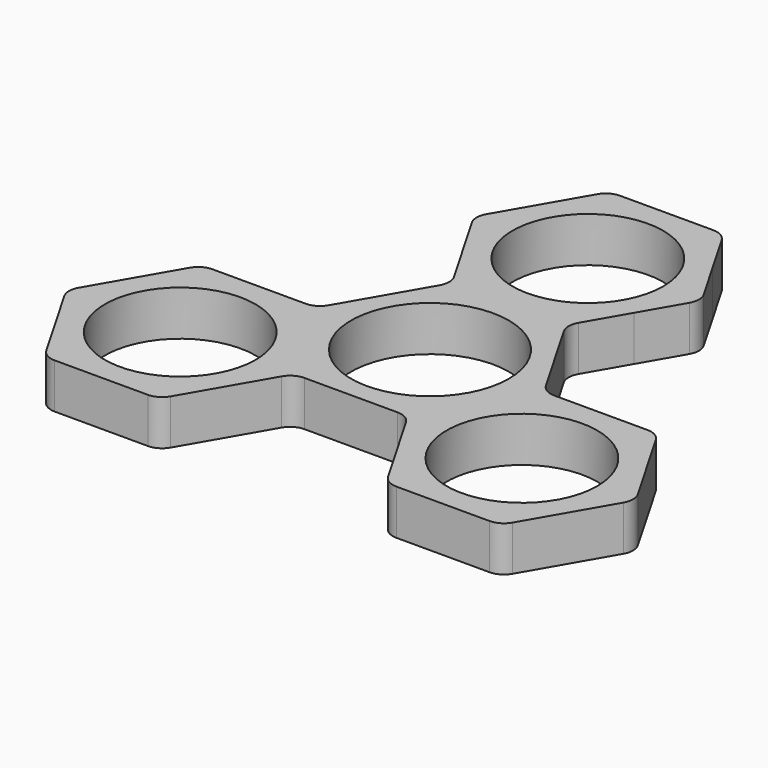
from build123d import *

# Parameters (mm, degrees)
F0_R     = 11.1125
F0_R_2   = 10.61
F1_DEPTH = 6.35
F2_R     = 2.54


with BuildPart() as f1:
    # F0 (on Top) → F1 (new body)
    with BuildSketch(Plane.XY):
        with BuildLine():
            ThreePointArc((12.029634049, -6.9453126307), (13.4173134113, -3.5951583713), (13.890625, 0))
            ThreePointArc((13.890625, 0), (13.4173134613, 3.5951581844), (12.0296342424, 6.9453122957))
            ThreePointArc((12.0296342424, 6.9453122957), (6.9453126033, 12.0296340648), (2.8e-09, 13.890625))
            ThreePointArc((2.8e-09, 13.890625), (-6.9453125381, 12.0296341025), (-12.0296341698, 6.9453124214))
            ThreePointArc((-12.0296341698, 6.9453124214), (-13.890625, 1.22e-08), (-12.029634182, -6.9453124002))
            ThreePointArc((-12.029634182, -6.9453124002), (-6.9453125499, -12.0296340956), (0, -13.890625))
            ThreePointArc((0, -13.890625), (6.9453124346, -12.0296341622), (12.029634049, -6.9453126307))
        make_face()
        Circle(F0_R, mode=Mode.SUBTRACT)
        with BuildLine():
            ThreePointArc((12.0296342424, 6.9453122957), (13.4173134613, 3.5951581844), (13.890625, 0))
            ThreePointArc((13.890625, 0), (13.4173134113, -3.5951583713), (12.029634049, -6.9453126307))
            Line((12.029634049, -6.9453126307), (16.0395121659, 0))
            Line((16.0395121659, 0), (12.0296342424, 6.9453122957))
        make_face()
        with BuildLine():
            ThreePointArc((2.8e-09, 13.890625), (6.9453126033, 12.0296340648), (12.0296342424, 6.9453122957))
            Line((12.0296342424, 6.9453122957), (8.019756083, 13.890625))
            Line((8.019756083, 13.890625), (2.8e-09, 13.890625))
        make_face()
        with BuildLine():
            Line((8.019756083, -13.890625), (12.029634049, -6.9453126307))
            ThreePointArc((12.029634049, -6.9453126307), (6.9453124346, -12.0296341622), (0, -13.890625))
            Line((0, -13.890625), (8.019756083, -13.890625))
        make_face()
        Polygon((16.0395121659, 0), (12.029634049, -6.9453126307), (8.019756083, -13.890625), (16.0395121659, -27.78125), (32.0790243318, -27.78125), (40.0987804148, -13.890625), (32.0790243318, 0), align=None)
        with Locations((24.0592682489, -13.890625)):
            Circle(F0_R_2, mode=Mode.SUBTRACT)
        with BuildLine():
            ThreePointArc((-12.0296341698, 6.9453124214), (-6.9453125381, 12.0296341025), (2.8e-09, 13.890625))
            Line((2.8e-09, 13.890625), (-8.019756083, 13.890625))
            Line((-8.019756083, 13.890625), (-12.0296341698, 6.9453124214))
        make_face()
        with BuildLine():
            ThreePointArc((12.0296340896, 20.8359374397), (6.945312471, 15.7516158588), (2.8e-09, 13.890625))
            Line((2.8e-09, 13.890625), (8.019756083, 13.890625))
            Line((8.019756083, 13.890625), (12.0296340896, 20.8359374397))
        make_face()
        with BuildLine():
            Line((-8.019756083, 13.890625), (2.8e-09, 13.890625))
            ThreePointArc((2.8e-09, 13.890625), (-6.9453126113, 15.7516159398), (-12.0296342543, 20.8359377249))
            Line((-12.0296342543, 20.8359377249), (-8.019756083, 13.890625))
        make_face()
        with BuildLine():
            ThreePointArc((-12.0296342543, 20.8359377249), (-6.9453126113, 15.7516159398), (2.8e-09, 13.890625))
            ThreePointArc((2.8e-09, 13.890625), (6.945312471, 15.7516158588), (12.0296340896, 20.8359374397))
            ThreePointArc((12.0296340896, 20.8359374397), (13.4173134218, 24.186091668), (13.890625, 27.78125))
            ThreePointArc((13.890625, 27.78125), (13.4173134908, 31.3764080746), (12.0296343561, 34.7265620987))
            ThreePointArc((12.0296343561, 34.7265620987), (6.9453127227, 39.8108839959), (5.09e-08, 41.671875))
            ThreePointArc((5.09e-08, 41.671875), (-6.9453124478, 39.8108841546), (-12.0296340896, 34.7265625603))
            ThreePointArc((-12.0296340896, 34.7265625603), (-13.890625, 27.7812501647), (-12.0296342543, 20.8359377249))
        make_face()
        with Locations((0, 27.78125)):
            Circle(F0_R_2, mode=Mode.SUBTRACT)
        with BuildLine():
            Line((-8.019756083, -13.890625), (0, -13.890625))
            ThreePointArc((0, -13.890625), (-6.9453125499, -12.0296340956), (-12.029634182, -6.9453124002))
            Line((-12.029634182, -6.9453124002), (-8.019756083, -13.890625))
        make_face()
        with BuildLine():
            ThreePointArc((-12.029634182, -6.9453124002), (-13.890625, 1.22e-08), (-12.0296341698, 6.9453124214))
            Line((-12.0296341698, 6.9453124214), (-16.0395121659, 0))
            Line((-16.0395121659, 0), (-12.029634182, -6.9453124002))
        make_face()
        with BuildLine():
            Line((-16.0395121659, 27.78125), (-12.0296342543, 20.8359377249))
            ThreePointArc((-12.0296342543, 20.8359377249), (-13.890625, 27.7812501647), (-12.0296340896, 34.7265625603))
            Line((-12.0296340896, 34.7265625603), (-16.0395121659, 27.78125))
        make_face()
        with BuildLine():
            ThreePointArc((13.890625, 27.78125), (13.4173134218, 24.186091668), (12.0296340896, 20.8359374397))
            Line((12.0296340896, 20.8359374397), (16.0395121659, 27.78125))
            Line((16.0395121659, 27.78125), (12.0296343561, 34.7265620987))
            ThreePointArc((12.0296343561, 34.7265620987), (13.4173134908, 31.3764080746), (13.890625, 27.78125))
        make_face()
        Polygon((-8.019756083, -13.890625), (-12.029634182, -6.9453124002), (-16.0395121659, 0), (-32.0790243318, 0), (-40.0987804148, -13.890625), (-32.0790243318, -27.78125), (-16.0395121659, -27.78125), align=None)
        with Locations((-24.0592682489, -13.890625)):
            Circle(F0_R_2, mode=Mode.SUBTRACT)
        with BuildLine():
            Line((-8.019756083, 41.671875), (-12.0296340896, 34.7265625603))
            ThreePointArc((-12.0296340896, 34.7265625603), (-6.9453124478, 39.8108841546), (5.09e-08, 41.671875))
            Line((5.09e-08, 41.671875), (-8.019756083, 41.671875))
        make_face()
        with BuildLine():
            Line((8.019756083, 41.671875), (5.09e-08, 41.671875))
            ThreePointArc((5.09e-08, 41.671875), (6.9453127227, 39.8108839959), (12.0296343561, 34.7265620987))
            Line((12.0296343561, 34.7265620987), (8.019756083, 41.671875))
        make_face()
    extrude(amount=F1_DEPTH)

    # F2
    f2_edges = [f1.edges().sort_by_distance(p)[0] for p in [
        (-8.019756, -13.890625, 3.175),
        (8.019756, -13.890625, 3.175),
        (16.039512, -27.78125, 3.175),
        (32.079024, -27.78125, 3.175),
        (40.09878, -13.890625, 3.175),
        (-16.039512, -27.78125, 3.175),
        (-32.079024, -27.78125, 3.175),
        (-40.09878, -13.890625, 3.175),
        (32.079024, 0, 3.175),
        (16.039512, 0, 3.175),
        (16.039512, 27.78125, 3.175),
        (8.019756, 41.671875, 3.175),
        (-8.019756, 41.671875, 3.175),
        (8.019756, 13.890625, 3.175),
        (-16.039512, 27.78125, 3.175),
        (-8.019756, 13.890625, 3.175),
        (-16.039512, 0, 3.175),
        (-32.079024, 0, 3.175),
    ]]
    fillet(f2_edges, radius=F2_R)


solid = f1.part
